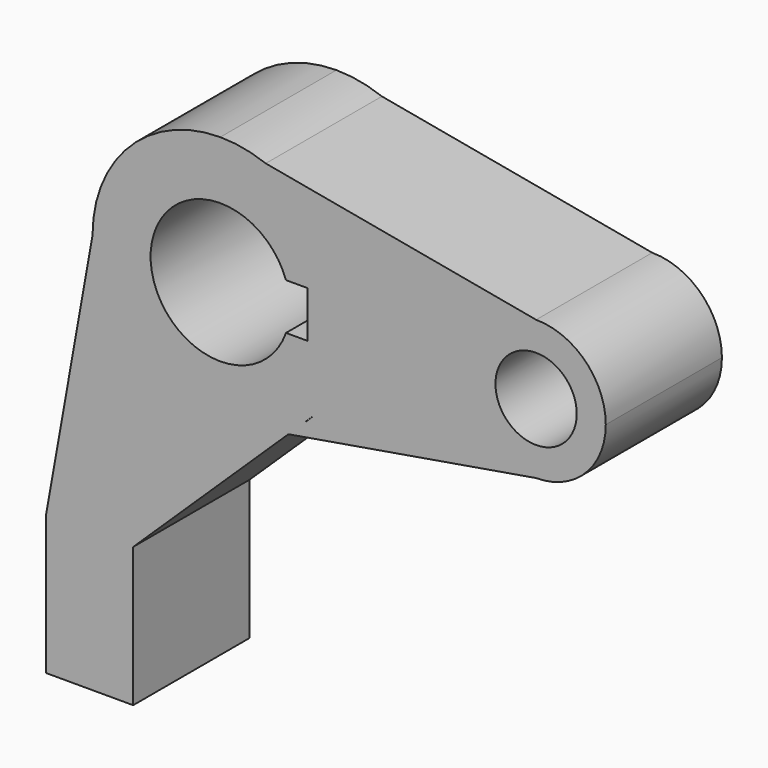
from build123d import *

# Parameters (mm, degrees)
F0_R     = 7
F1_DEPTH = 25


with BuildPart() as f1:
    # F0 (on Front) → F1 (new body)
    with BuildSketch(Plane.XZ):
        with BuildLine():
            ThreePointArc((54.383337, 34.501073), (62.868619, 38.015792), (66.383337, 46.501073))
            ThreePointArc((66.383337, 46.501073), (62.868619, 54.986355), (54.383337, 58.501073))
            ThreePointArc((54.383337, 58.501073), (42.383337, 46.501073), (54.383337, 34.501073))
        make_face()
        with Locations((54.383337, 46.501073)):
            Circle(F0_R, mode=Mode.SUBTRACT)
        with BuildLine():
            ThreePointArc((54.383337, 34.501073), (42.383337, 46.501073), (54.383337, 58.501073))
            Line((54.383337, 58.501073), (7.826099, 67.062011))
            ThreePointArc((7.826099, 67.062011), (18.113174, 58.987582), (22, 46.501073))
            ThreePointArc((22, 46.501073), (20.436304, 38.355062), (15.967501, 31.367041))
            ThreePointArc((15.967501, 31.367041), (15.272162, 30.665636), (14.546042, 29.996145))
            Line((14.546042, 29.996145), (11.725203, 27.275644))
            Line((11.725203, 27.275644), (54.383337, 34.501073))
        make_face()
        with BuildLine():
            Line((0, 68.501073), (7.826099, 67.062011))
            ThreePointArc((7.826099, 67.062011), (3.978653, 68.138317), (0, 68.501073))
        make_face()
        with BuildLine():
            ThreePointArc((22, 46.501073), (18.113174, 58.987582), (7.826099, 67.062011))
            Line((7.826099, 67.062011), (0, 68.501073))
            ThreePointArc((0, 68.501073), (-15.556349, 62.057422), (-22, 46.501073))
            ThreePointArc((-22, 46.501073), (-9.055028, 26.450974), (14.546042, 29.996145))
            Line((14.546042, 29.996145), (15.967501, 31.367041))
            ThreePointArc((15.967501, 31.367041), (20.436304, 38.355062), (22, 46.501073))
        make_face()
        with BuildLine():
            ThreePointArc((11.313708, 42.501073), (-12, 46.501073), (11.313708, 50.501073))
            Line((11.313708, 50.501073), (15, 50.501073))
            Line((15, 50.501073), (15, 46.501073))
            Line((15, 46.501073), (15, 42.501073))
            Line((15, 42.501073), (11.313708, 42.501073))
        make_face(mode=Mode.SUBTRACT)
        with BuildLine():
            Line((-15, 1.501073), (11.725203, 27.275644))
            Line((11.725203, 27.275644), (14.546042, 29.996145))
            ThreePointArc((14.546042, 29.996145), (-9.055028, 26.450974), (-22, 46.501073))
            Line((-22, 46.501073), (-30, 1.501073))
            Line((-30, 1.501073), (-15, 1.501073))
        make_face()
        Polygon((-15, -10.498927), (-15, 1.501073), (-30, 1.501073), (-30, -22.498927), (-15, -22.498927), align=None)
    extrude(amount=F1_DEPTH)


solid = f1.part
